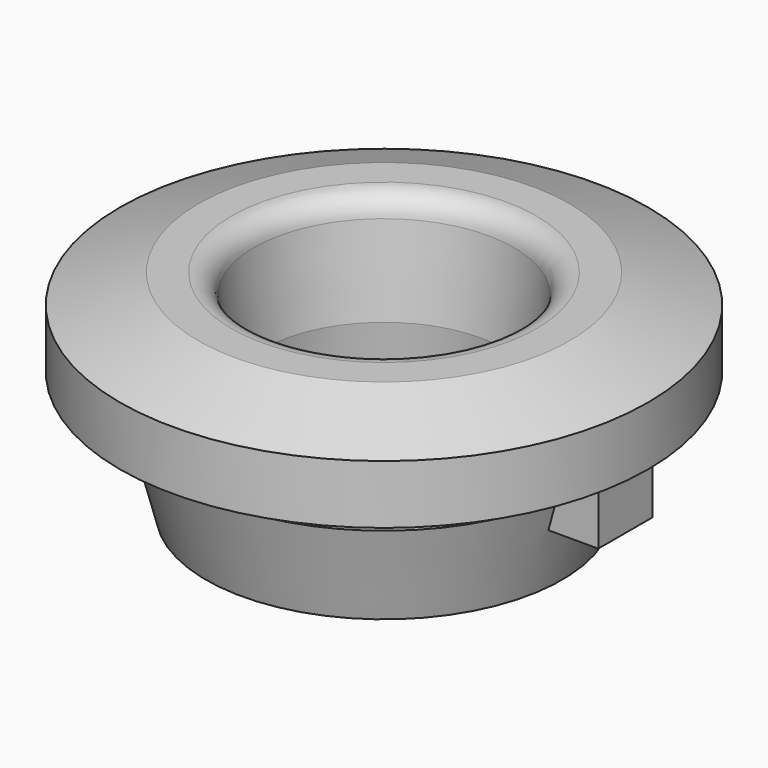
from build123d import *

# Parameters (mm, degrees)
F2_R     = 1.5
F4_DEPTH = 4.2


with BuildPart() as f1:
    # F0 (on Front) → F1 (revolve)
    with BuildSketch(Plane.XZ):
        Polygon((-11.8, 0), (-8.75, 0), (-8.05, 7), (-8.75, 14.1), (-12.3, 14.1), (-17.5, 12.2), (-17.5, 8.3), (-13, 8.3), (-13, 6), (-13.4, 6), align=None)
    revolve(axis=Axis((0, 0, 7.750909), (0, 0, 1)))

    # F2
    f2_edges = [f1.edges().sort_by_distance(p)[0] for p in [
        (8.75, 0, 14.1),
    ]]
    fillet(f2_edges, radius=F2_R)

    # F3 (on face) → F4 (join)
    with BuildSketch(Plane(origin=(0, 0, 8.3), x_dir=(1, 0, 0), z_dir=(0, 0, -1))):
        with BuildLine():
            ThreePointArc((-12.803808, -2.25), (-13, 0), (-12.803808, 2.25))
            Line((-12.803808, 2.25), (-16, 2.25))
            Line((-16, 2.25), (-16, -2.25))
            Line((-16, -2.25), (-12.803808, -2.25))
        make_face()
        with BuildLine():
            Line((16, 2.25), (12.803808, 2.25))
            ThreePointArc((12.803808, 2.25), (12.950859, 1.129269), (13, 0))
            ThreePointArc((13, 0), (12.950859, -1.129269), (12.803808, -2.25))
            Line((12.803808, -2.25), (16, -2.25))
            Line((16, -2.25), (16, 2.25))
        make_face()
        with BuildLine():
            ThreePointArc((13, 0), (12.950859, 1.129269), (12.803808, 2.25))
            Line((12.803808, 2.25), (12, 2.25))
            Line((12, 2.25), (12, -2.25))
            Line((12, -2.25), (12.803808, -2.25))
            ThreePointArc((12.803808, -2.25), (12.950859, -1.129269), (13, 0))
        make_face()
        with BuildLine():
            Line((-12, -2.25), (-12, 2.25))
            Line((-12, 2.25), (-12.803808, 2.25))
            ThreePointArc((-12.803808, 2.25), (-13, 0), (-12.803808, -2.25))
            Line((-12.803808, -2.25), (-12, -2.25))
        make_face()
    extrude(amount=F4_DEPTH)


solid = f1.part
